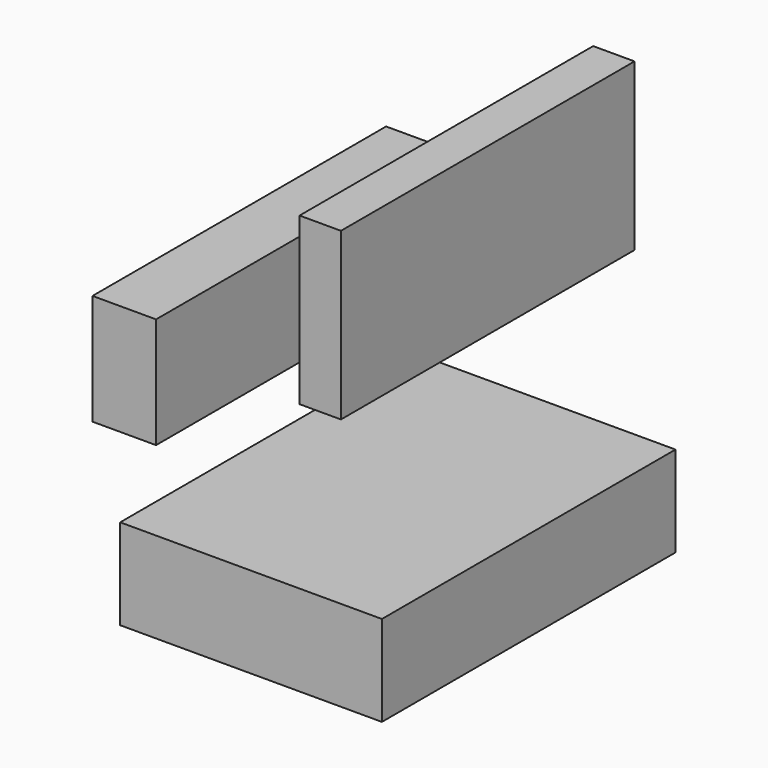
from build123d import *

# Parameters (mm, degrees)
F0_W     = 16.06986
F0_H     = 64.524651
F0_W_2   = 24.685576
F0_H_2   = 43.016464
F0_W_3   = 101.675228
F0_H_3   = 35.202772
F1_DEPTH = 142.562391


with BuildPart() as f1:
    # F0 (on Front) → F1 (new body)
    with BuildSketch(Plane.XZ):
        with Locations((26.885286, 112.918168)):
            Rectangle(F0_W, F0_H)
        with Locations((-49.248934, 70.023924)):
            Rectangle(F0_W_2, F0_H_2)
        Rectangle(F0_W_3, F0_H_3)
    extrude(amount=F1_DEPTH)


solid = f1.part
